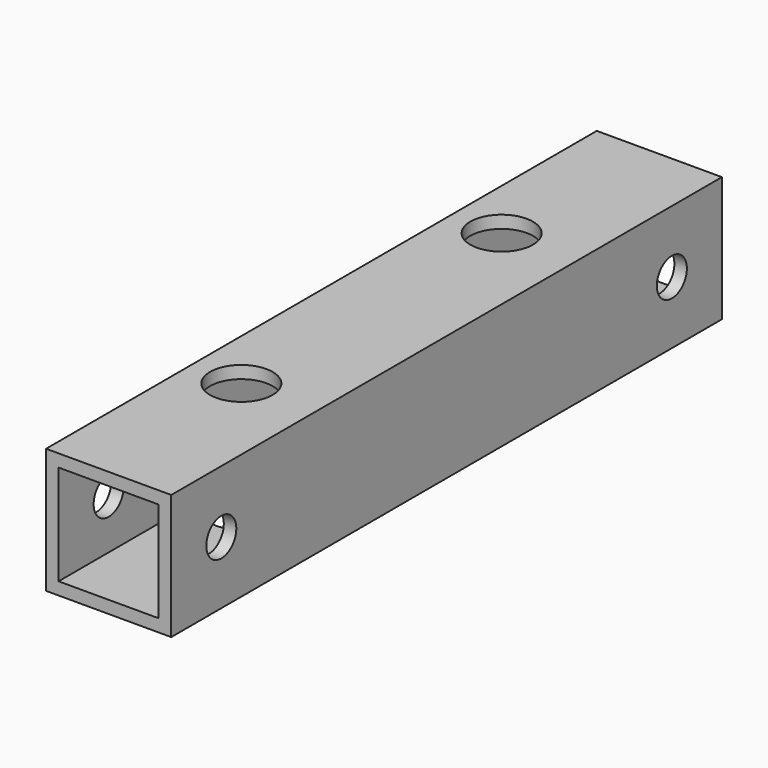
from build123d import *

# Parameters (mm, degrees)
F0_W     = 10
F0_H     = 10
F0_W_2   = 8
F0_H_2   = 8
F1_DEPTH = 55
F2_R     = 1.5
F3_DEPTH = 25
F4_R     = 2.5
F5_DEPTH = 25


with BuildPart() as f1:
    # F0 (on Front) → F1 (new body)
    with BuildSketch(Plane.XZ):
        Rectangle(F0_W, F0_H)
        Rectangle(F0_W_2, F0_H_2, mode=Mode.SUBTRACT)
    extrude(amount=F1_DEPTH)

    # F2 (on face) → F3 (cut)
    with BuildSketch(Plane.YZ.offset(5)):
        with Locations((-50, 0)):
            Circle(F2_R)
        with Locations((-5, 0)):
            Circle(F2_R)
    extrude(amount=-F3_DEPTH, mode=Mode.SUBTRACT)

    # F4 (on face) → F5 (cut)
    with BuildSketch(Plane.XY.offset(5)):
        with Locations((-1, -40.5)):
            Circle(F4_R)
        with Locations((-1, -14.5)):
            Circle(F4_R)
    extrude(amount=-F5_DEPTH, mode=Mode.SUBTRACT)


solid = f1.part
